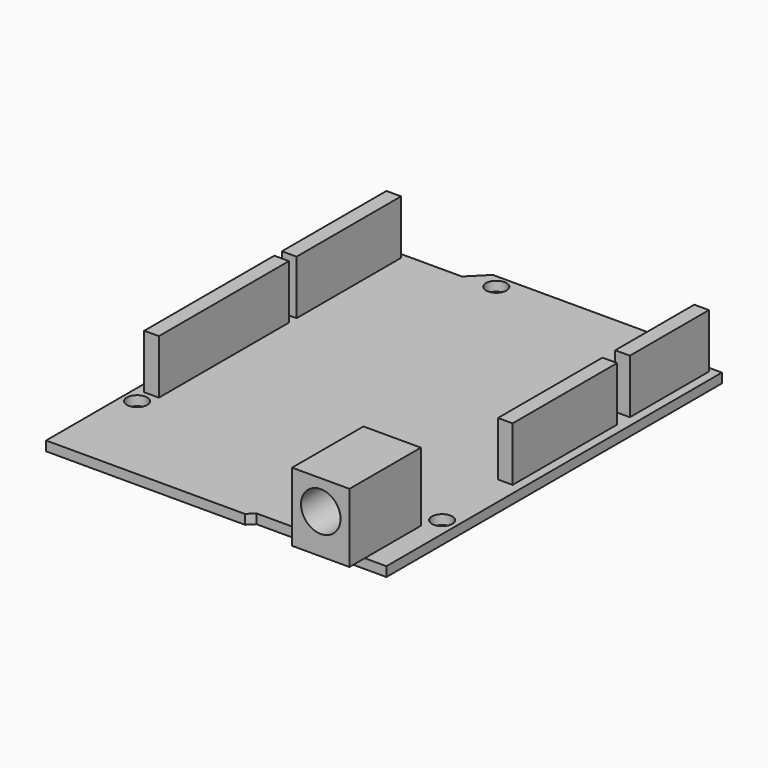
from build123d import *

# Parameters (mm, degrees)
PAD_DEPTH       = 1.5
SKETCH001_R     = 1.6
POCKET_DEPTH    = 1.501
SKETCH002_W     = 9
SKETCH002_H     = 14
PAD001_DEPTH    = 10.8
SKETCH003_R     = 3.1
POCKET001_DEPTH = 10
SKETCH004_W     = 2.3
SKETCH004_H     = 20.5
PAD002_DEPTH    = 8.5
SKETCH005_W     = 2.3
SKETCH005_H     = 25.5
PAD003_DEPTH    = 8.5
SKETCH006_W     = 2.3
SKETCH006_H     = 15.5
PAD004_DEPTH    = 8.5
SKETCH007_W     = 2.3
SKETCH007_H     = 20.5
PAD005_DEPTH    = 8.5


with BuildPart() as mainboard:
    # Sketch → Pad (new body)
    with BuildSketch(Plane.XY):
        Polygon((53.4, 65.8), (53.4, 0), (38.9, 0), (37.9, 1), (32.2, 1), (31.2, 0), (0, 0), (0, 65.8), (12.6, 65.8), (15.3, 68.5), (47.3, 68.5), (50, 65.8), align=None)
    extrude(amount=-PAD_DEPTH)

    # Sketch001 → Pocket (cut, through all)
    with BuildSketch(Plane.XY):
        with Locations((17.6, 66.3)):
            Circle(SKETCH001_R)
        with Locations((45.3, 66.3)):
            Circle(SKETCH001_R)
        with Locations((2.2, 15.1)):
            Circle(SKETCH001_R)
        with Locations((51.1, 13.8)):
            Circle(SKETCH001_R)
    extrude(amount=-POCKET_DEPTH, mode=Mode.SUBTRACT)


with BuildPart() as powerbarrel:
    # Sketch002 → Pad001 (new body)
    with BuildSketch(Plane.XY):
        with Locations((45.5, 4)):
            Rectangle(SKETCH002_W, SKETCH002_H)
    extrude(amount=PAD001_DEPTH)

    # Sketch003 (on Face3 of Pad001) → Pocket001 (cut)
    with BuildSketch(Plane.XZ.offset(3)):
        with Locations((45.5, 6.2)):
            Circle(SKETCH003_R)
    extrude(amount=-POCKET001_DEPTH, mode=Mode.SUBTRACT)


with BuildPart() as header1:
    # Sketch004 → Pad002 (new body)
    with BuildSketch(Plane.XY):
        with Locations((2.55, 54.75)):
            Rectangle(SKETCH004_W, SKETCH004_H)
    extrude(amount=PAD002_DEPTH)


with BuildPart() as header2:
    # Sketch005 → Pad003 (new body)
    with BuildSketch(Plane.XY):
        with Locations((2.55, 30.25)):
            Rectangle(SKETCH005_W, SKETCH005_H)
    extrude(amount=PAD003_DEPTH)


with BuildPart() as header3:
    # Sketch006 → Pad004 (new body)
    with BuildSketch(Plane.XY):
        with Locations((50.85, 57.25)):
            Rectangle(SKETCH006_W, SKETCH006_H)
    extrude(amount=PAD004_DEPTH)


with BuildPart() as header4:
    # Sketch007 → Pad005 (new body)
    with BuildSketch(Plane.XY):
        with Locations((50.85, 36.75)):
            Rectangle(SKETCH007_W, SKETCH007_H)
    extrude(amount=PAD005_DEPTH)


solid = Compound([mainboard.part, powerbarrel.part, header1.part, header2.part, header3.part, header4.part])
